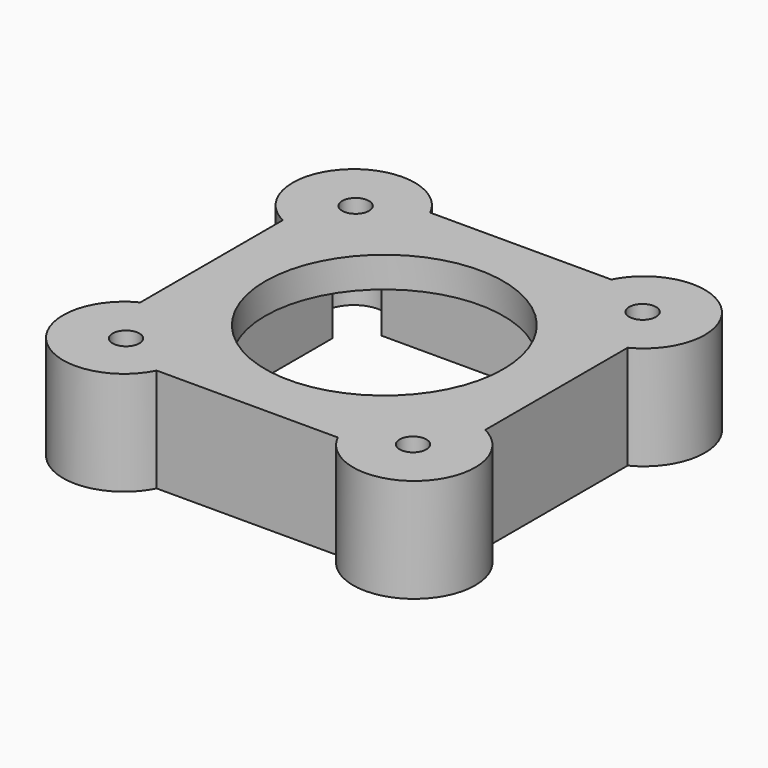
from build123d import *

# Parameters (mm, degrees)
EXTRUDE_DEPTH   = 12
THICKNESS_T     = 5
SKETCH007_R     = 2.2
SKETCH007_R_2   = 19.5
POCKET003_DEPTH = 5


with BuildPart() as part:
    # Sketch006 → Extrude (new body)
    with BuildSketch(Plane.XY.offset(-2)):
        with BuildLine():
            Line((-18.825063, 27), (18.725063, 27))
            ThreePointArc((18.725063, 27), (27.235534, 22.964466), (23.2, 31.474937))
            Line((23.2, 31.474937), (23.2, 68.525063))
            ThreePointArc((23.2, 68.525063), (27.235534, 77.035534), (18.725063, 73))
            Line((18.725063, 73), (-18.825063, 73))
            ThreePointArc((-18.825063, 73), (-27.335534, 77.035534), (-23.3, 68.525063))
            Line((-23.3, 68.525063), (-23.3, 31.474937))
            ThreePointArc((-23.3, 31.474937), (-27.335534, 22.964466), (-18.825063, 27))
        make_face()
    extrude(amount=EXTRUDE_DEPTH)

    # Thickness
    thickness_openings = [part.faces().sort_by_distance(p)[0] for p in [
        (-0.05, 50, -2),
    ]]
    offset(amount=THICKNESS_T, openings=thickness_openings, kind=Kind.INTERSECTION)

    # Sketch007 → Pocket003 (cut)
    with BuildSketch(Plane.XY.offset(15)):
        with Locations((-23.5, 73.5)):
            Circle(SKETCH007_R)
        with Locations((-23.5, 26.5)):
            Circle(SKETCH007_R)
        with Locations((23.5, 26.5)):
            Circle(SKETCH007_R)
        with Locations((23.5, 73.5)):
            Circle(SKETCH007_R)
        with Locations((0, 50)):
            Circle(SKETCH007_R_2)
    extrude(amount=-POCKET003_DEPTH, mode=Mode.SUBTRACT)


solid = part.part
